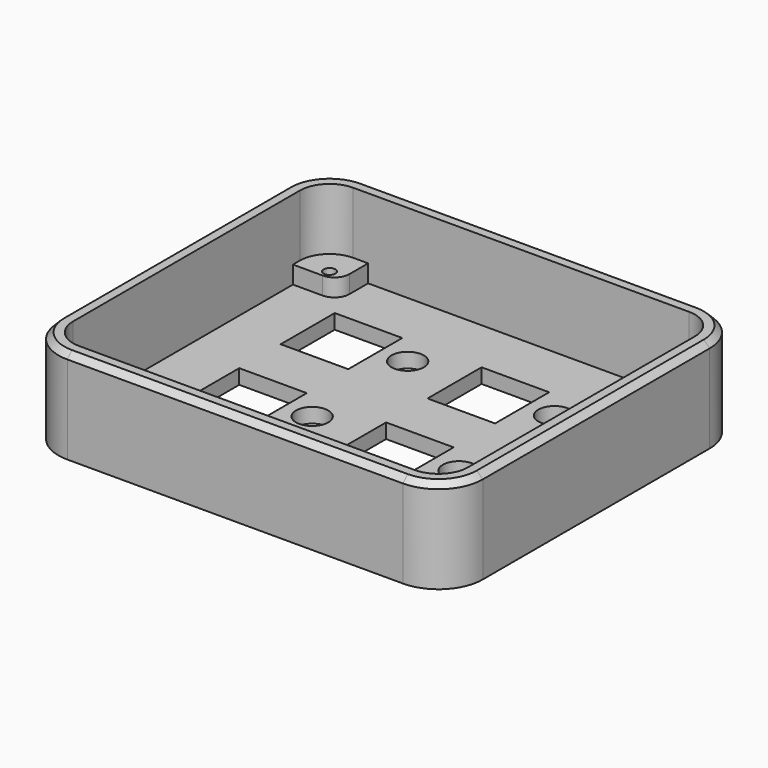
from build123d import *

# Parameters (mm, degrees)
F0_R     = 1
F1_DEPTH = 16
F2_T     = -2.5
F3_DEPTH = 5.5
F4_W     = 41.64
F4_H     = 10.8
F4_R     = 2.75
F4_W_2   = 11.5
F4_H_2   = 11.5
F5_DEPTH = 2.501
F6_SIZE  = 1


with BuildPart() as f1:
    # F0 (on Top) → F1 (new body)
    with BuildSketch(Plane.XY):
        with BuildLine():
            ThreePointArc((36.115, 24.13), (33.906585, 29.461585), (28.575, 31.67))
            Line((28.575, 31.67), (26.035, 31.67))
            Line((26.035, 31.67), (26.035, 25.185541))
            ThreePointArc((26.035, 25.185541), (26.778949, 23.38949), (28.575, 22.645541))
            Line((28.575, 22.645541), (36.115, 22.645541))
            Line((36.115, 22.645541), (36.115, 24.13))
        make_face()
        with Locations((28.575, 24.13)):
            Circle(F0_R, mode=Mode.SUBTRACT)
        with BuildLine():
            Line((-26.035, 25.185541), (-26.035, 31.67))
            Line((-26.035, 31.67), (-28.575, 31.67))
            ThreePointArc((-28.575, 31.67), (-33.906585, 29.461585), (-36.115, 24.13))
            Line((-36.115, 24.13), (-36.115, 22.645541))
            Line((-36.115, 22.645541), (-28.575, 22.645541))
            ThreePointArc((-28.575, 22.645541), (-26.778949, 23.38949), (-26.035, 25.185541))
        make_face()
        with Locations((-28.575, 24.13)):
            Circle(F0_R, mode=Mode.SUBTRACT)
        with BuildLine():
            Line((36.115, -24.13), (36.115, -22.645541))
            Line((36.115, -22.645541), (28.575, -22.645541))
            ThreePointArc((28.575, -22.645541), (26.778949, -23.38949), (26.035, -25.185541))
            Line((26.035, -25.185541), (26.035, -31.67))
            Line((26.035, -31.67), (28.575, -31.67))
            ThreePointArc((28.575, -31.67), (33.906585, -29.461585), (36.115, -24.13))
        make_face()
        with Locations((28.575, -24.13)):
            Circle(F0_R, mode=Mode.SUBTRACT)
        with BuildLine():
            Line((-28.575, -22.645541), (-36.115, -22.645541))
            Line((-36.115, -22.645541), (-36.115, -24.13))
            ThreePointArc((-36.115, -24.13), (-33.906585, -29.461585), (-28.575, -31.67))
            Line((-28.575, -31.67), (-26.035, -31.67))
            Line((-26.035, -31.67), (-26.035, -25.185541))
            ThreePointArc((-26.035, -25.185541), (-26.778949, -23.38949), (-28.575, -22.645541))
        make_face()
        with Locations((-28.575, -24.13)):
            Circle(F0_R, mode=Mode.SUBTRACT)
        with BuildLine():
            Line((26.035, 25.185541), (26.035, 31.67))
            Line((26.035, 31.67), (-26.035, 31.67))
            Line((-26.035, 31.67), (-26.035, 25.185541))
            ThreePointArc((-26.035, 25.185541), (-26.778949, 23.38949), (-28.575, 22.645541))
            Line((-28.575, 22.645541), (-36.115, 22.645541))
            Line((-36.115, 22.645541), (-36.115, -22.645541))
            Line((-36.115, -22.645541), (-28.575, -22.645541))
            ThreePointArc((-28.575, -22.645541), (-26.778949, -23.38949), (-26.035, -25.185541))
            Line((-26.035, -25.185541), (-26.035, -31.67))
            Line((-26.035, -31.67), (26.035, -31.67))
            Line((26.035, -31.67), (26.035, -25.185541))
            ThreePointArc((26.035, -25.185541), (26.778949, -23.38949), (28.575, -22.645541))
            Line((28.575, -22.645541), (36.115, -22.645541))
            Line((36.115, -22.645541), (36.115, 22.645541))
            Line((36.115, 22.645541), (28.575, 22.645541))
            ThreePointArc((28.575, 22.645541), (26.778949, 23.38949), (26.035, 25.185541))
        make_face()
        with Locations((-28.575, 24.13)):
            Circle(F0_R)
        with Locations((28.575, 24.13)):
            Circle(F0_R)
        with Locations((28.575, -24.13)):
            Circle(F0_R)
        with Locations((-28.575, -24.13)):
            Circle(F0_R)
    extrude(amount=F1_DEPTH)

    # F2
    f2_openings = [f1.faces().sort_by_distance(p)[0] for p in [
        (0, 0, 16),
    ]]
    offset(amount=F2_T, openings=f2_openings)

    # F0 (on Top) → F3 (join)
    with BuildSketch(Plane.XY):
        with BuildLine():
            Line((-28.575, -22.645541), (-36.115, -22.645541))
            Line((-36.115, -22.645541), (-36.115, -24.13))
            ThreePointArc((-36.115, -24.13), (-33.906585, -29.461585), (-28.575, -31.67))
            Line((-28.575, -31.67), (-26.035, -31.67))
            Line((-26.035, -31.67), (-26.035, -25.185541))
            ThreePointArc((-26.035, -25.185541), (-26.778949, -23.38949), (-28.575, -22.645541))
        make_face()
        with Locations((-28.575, -24.13)):
            Circle(F0_R, mode=Mode.SUBTRACT)
        with BuildLine():
            Line((36.115, -24.13), (36.115, -22.645541))
            Line((36.115, -22.645541), (28.575, -22.645541))
            ThreePointArc((28.575, -22.645541), (26.778949, -23.38949), (26.035, -25.185541))
            Line((26.035, -25.185541), (26.035, -31.67))
            Line((26.035, -31.67), (28.575, -31.67))
            ThreePointArc((28.575, -31.67), (33.906585, -29.461585), (36.115, -24.13))
        make_face()
        with Locations((28.575, -24.13)):
            Circle(F0_R, mode=Mode.SUBTRACT)
        with BuildLine():
            ThreePointArc((36.115, 24.13), (33.906585, 29.461585), (28.575, 31.67))
            Line((28.575, 31.67), (26.035, 31.67))
            Line((26.035, 31.67), (26.035, 25.185541))
            ThreePointArc((26.035, 25.185541), (26.778949, 23.38949), (28.575, 22.645541))
            Line((28.575, 22.645541), (36.115, 22.645541))
            Line((36.115, 22.645541), (36.115, 24.13))
        make_face()
        with Locations((28.575, 24.13)):
            Circle(F0_R, mode=Mode.SUBTRACT)
        with BuildLine():
            Line((-26.035, 25.185541), (-26.035, 31.67))
            Line((-26.035, 31.67), (-28.575, 31.67))
            ThreePointArc((-28.575, 31.67), (-33.906585, 29.461585), (-36.115, 24.13))
            Line((-36.115, 24.13), (-36.115, 22.645541))
            Line((-36.115, 22.645541), (-28.575, 22.645541))
            ThreePointArc((-28.575, 22.645541), (-26.778949, 23.38949), (-26.035, 25.185541))
        make_face()
        with Locations((-28.575, 24.13)):
            Circle(F0_R, mode=Mode.SUBTRACT)
    extrude(amount=F3_DEPTH)

    # F4 (on face) → F5 (cut, through all)
    with BuildSketch(Plane.XY.offset(2.5)):
        with Locations((0.365, -19.16)):
            Rectangle(F4_W, F4_H)
        with Locations((17.088419, -5.397456)):
            Circle(F4_R)
        with Locations((6.585, 13.97)):
            Rectangle(F4_W_2, F4_H_2)
        with Locations((17.088419, 14.922544)):
            Circle(F4_R)
        with Locations((6.585, -6.35)):
            Rectangle(F4_W_2, F4_H_2)
        with Locations((-18.415, -6.35)):
            Rectangle(F4_W_2, F4_H_2)
        with Locations((-7.911581, -5.397456)):
            Circle(F4_R)
        with Locations((-18.415, 13.97)):
            Rectangle(F4_W_2, F4_H_2)
        with Locations((-7.911581, 14.922544)):
            Circle(F4_R)
    extrude(amount=-F5_DEPTH, mode=Mode.SUBTRACT)

    # F6
    f6_edges = [f1.edges().sort_by_distance(p)[0] for p in [
        (36.115, 0, 16),
    ]]
    chamfer(f6_edges, length=F6_SIZE)


solid = f1.part
